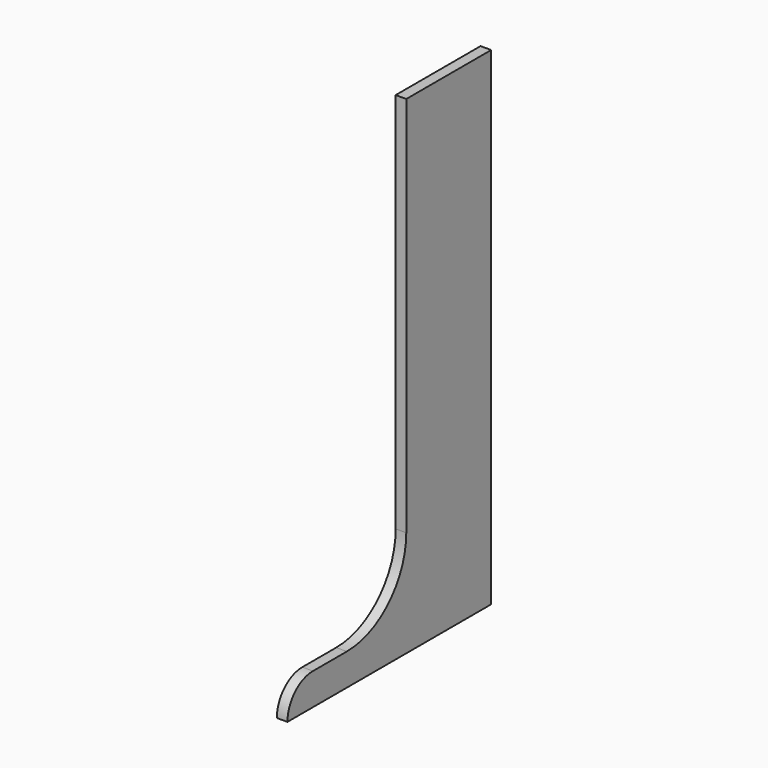
from build123d import *

# Parameters (mm, degrees)
F0_W     = 355.6
F0_H     = 254
F1_DEPTH = 12.7
F3_DEPTH = 25.401


with BuildPart() as f1:
    # F0 (on Right) → F1 (new body, symmetric)
    with BuildSketch(Plane.YZ):
        Polygon((127, -584.2), (127, 584.2), (-127, 584.2), (-127, -330.2), (-127, -584.2), align=None)
        with Locations((-304.8, -457.2)):
            Rectangle(F0_W, F0_H)
    extrude(amount=F1_DEPTH, both=True)

    # F2 (on face) → F3 (cut, through all)
    with BuildSketch(Plane.YZ.offset(12.7)):
        with BuildLine():
            ThreePointArc((-304.8, -508), (-179.076414305, -455.923585695), (-127, -330.2))
            Line((-127, -330.2), (-482.6, -330.2))
            Line((-482.6, -330.2), (-482.6, -584.2))
            ThreePointArc((-482.6, -584.2), (-460.2815367264, -530.3184632736), (-406.4, -508))
            Line((-406.4, -508), (-304.8, -508))
        make_face()
    extrude(amount=-F3_DEPTH, mode=Mode.SUBTRACT)


solid = f1.part
